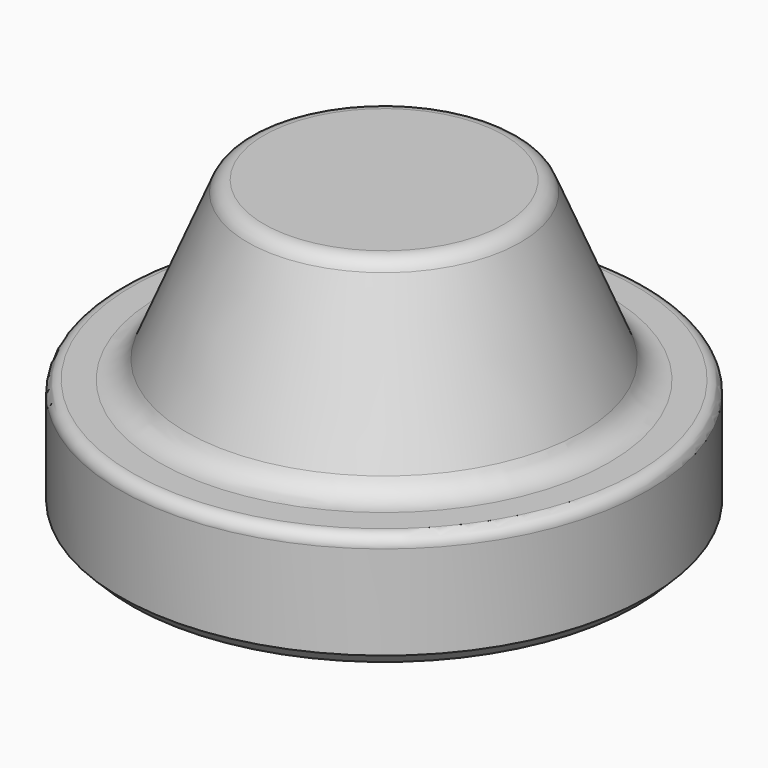
from build123d import *

# Parameters (mm, degrees)
F2_SIZE = 2


with BuildPart() as f1:
    # F0 (on Front) → F1 (revolve)
    with BuildSketch(Plane.XZ):
        with BuildLine():
            Line((20.5, 50), (0, 50))
            Line((0, 50), (0, 0))
            Line((0, 0), (45, 0))
            Line((45, 0), (45, 18))
            ThreePointArc((45, 18), (44.414214, 19.414214), (43, 20))
            Line((43, 20), (38.333333, 20))
            ThreePointArc((38.333333, 20), (35.559832, 20.839749), (33.717949, 23.076923))
            Line((33.717949, 23.076923), (23.269231, 48.153846))
            ThreePointArc((23.269231, 48.153846), (22.164101, 49.496151), (20.5, 50))
        make_face()
    revolve(axis=Axis((0, 0, 4.13416), (0, 0, -1)))

    # F2
    f2_edges = [f1.edges().sort_by_distance(p)[0] for p in [
        (-45, 0, 0),
    ]]
    chamfer(f2_edges, length=F2_SIZE)


solid = f1.part
